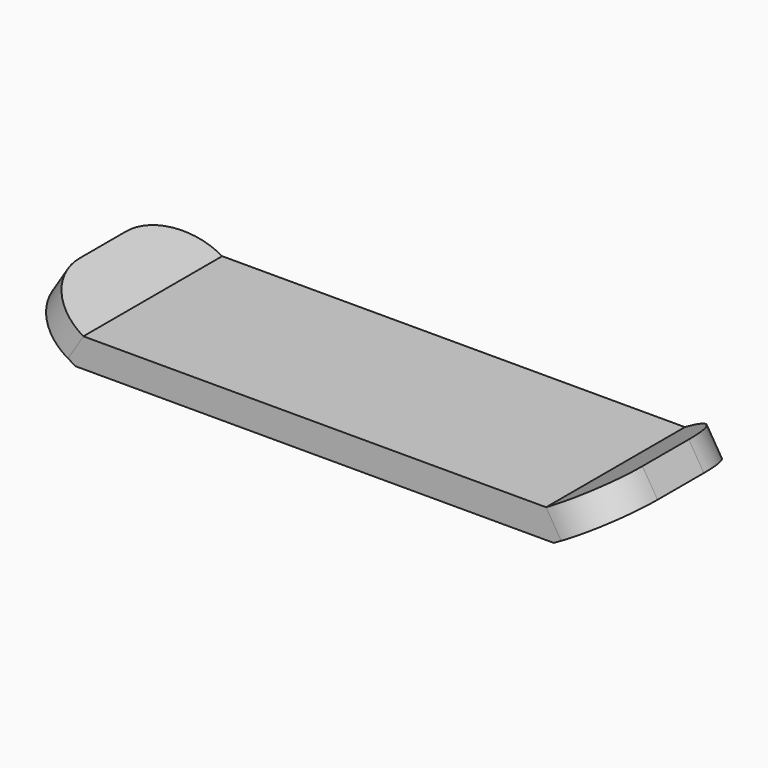
from build123d import *

# Parameters (mm, degrees)
F1_DEPTH = 30
F2_R     = 10
F3_R     = 10
F4_R     = 10
F5_R     = 10
F6_W     = 10
F6_H     = 10
F6_R     = 0.75
F7_DEPTH = 2


with BuildPart() as f1:
    # F0 (on Front) → F1 (new body)
    with BuildSketch(Plane.XZ):
        Polygon((40, 0), (0, 0), (-40, 0), (-48.660254, 5), (-51.324189, 0.768753), (-41.332416, -5), (41.336155, -5), (51.275389, 0.73842), (48.660254, 5), align=None)
    extrude(amount=F1_DEPTH)

    # F2
    f2_edges = [f1.edges().sort_by_distance(p)[0] for p in [
        (49.967822, -30, 2.86921),
    ]]
    fillet(f2_edges, radius=F2_R)

    # F3
    f3_edges = [f1.edges().sort_by_distance(p)[0] for p in [
        (49.967822, 0, 2.86921),
    ]]
    fillet(f3_edges, radius=F3_R)

    # F4
    f4_edges = [f1.edges().sort_by_distance(p)[0] for p in [
        (-49.992221, 0, 2.884377),
    ]]
    fillet(f4_edges, radius=F4_R)

    # F5
    f5_edges = [f1.edges().sort_by_distance(p)[0] for p in [
        (-49.992221, -30, 2.884377),
    ]]
    fillet(f5_edges, radius=F5_R)

    # F6 (on face) → F7 (join)
    with BuildSketch(Plane(origin=(0, 0, -5), x_dir=(1, 0, 0), z_dir=(0, 0, -1))):
        with Locations((31.332416, 15)):
            Rectangle(F6_W, F6_H)
        with Locations((28.082416, 11.75)):
            Circle(F6_R, mode=Mode.SUBTRACT)
        with Locations((34.582416, 11.75)):
            Circle(F6_R, mode=Mode.SUBTRACT)
        with Locations((28.082416, 18.25)):
            Circle(F6_R, mode=Mode.SUBTRACT)
        with Locations((34.582416, 18.25)):
            Circle(F6_R, mode=Mode.SUBTRACT)
        with Locations((-31.332416, 15)):
            Rectangle(F6_W, F6_H)
        with Locations((-34.582416, 11.75)):
            Circle(F6_R, mode=Mode.SUBTRACT)
        with Locations((-28.082416, 11.75)):
            Circle(F6_R, mode=Mode.SUBTRACT)
        with Locations((-34.582416, 18.25)):
            Circle(F6_R, mode=Mode.SUBTRACT)
        with Locations((-28.082416, 18.25)):
            Circle(F6_R, mode=Mode.SUBTRACT)
    extrude(amount=F7_DEPTH)


solid = f1.part
